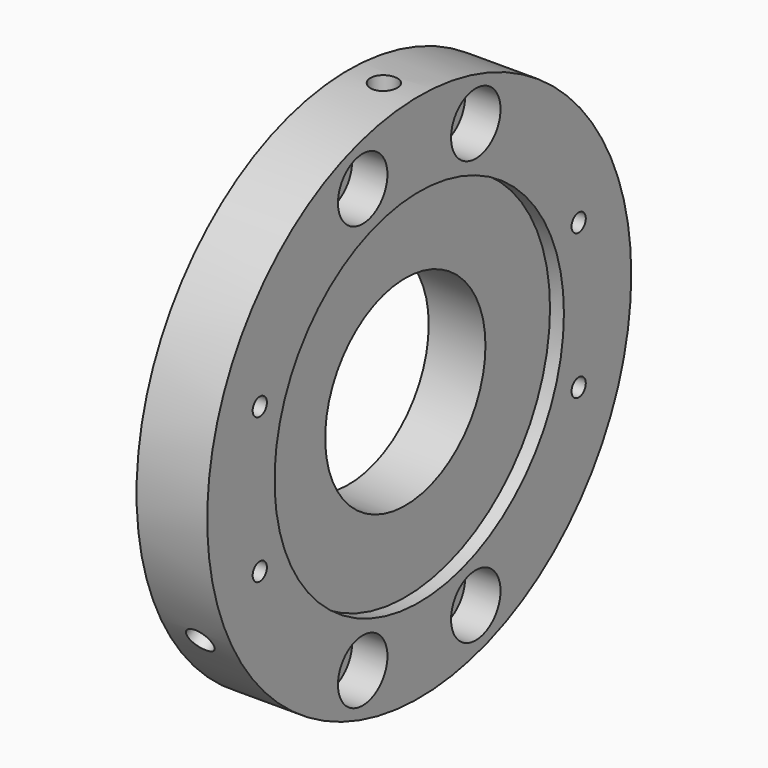
from build123d import *

# Parameters (mm, degrees)
F0_R           = 47.625
F0_R_2         = 18
F1_DEPTH       = 6.35
F2_R           = 32.5
F3_DEPTH       = 2.5
F5_D           = 3.2
F5_DEPTH       = 10
F5_TIP         = 0.9613769904
F7_D           = 6.7564
F7_CBORE_D     = 11.1125
F7_CBORE_DEPTH = 6.35
F9_R           = 2.413
F10_DEPTH      = 16.002
F11_SIZE       = 2.286
F13_COUNT      = 3
F13_ANGLE      = 240


with BuildPart() as f1:
    # F0 (on Right) → F1 (new body, symmetric)
    with BuildSketch(Plane.YZ):
        Circle(F0_R)
        Circle(F0_R_2, mode=Mode.SUBTRACT)
    extrude(amount=F1_DEPTH, both=True)

    # F2 (on face) → F3 (cut)
    with BuildSketch(Plane.YZ.offset(6.35)):
        Circle(F2_R)
    extrude(amount=-F3_DEPTH, mode=Mode.SUBTRACT)

    # F5
    with Locations(Plane.YZ.offset(6.35)):
        with Locations((-35.814, 13.03522997), (35.814, 13.03522997), (35.814, -13.03522997), (-35.814, -13.03522997)):
            Hole(F5_D / 2, depth=F5_DEPTH)
            with Locations((0, 0, -(F5_DEPTH + F5_TIP / 2))):  # 118° drill point
                Cone(0, F5_D / 2, F5_TIP, mode=Mode.SUBTRACT)

    # F7 (through all)
    with Locations(Plane.YZ.offset(6.35)):
        with Locations((-12.7, 38.1), (12.7, 38.1), (-12.7, -38.1), (12.7, -38.1)):
            CounterBoreHole(F7_D / 2, F7_CBORE_D / 2, F7_CBORE_DEPTH)


with BuildPart() as f10:
    # F9 (on offset) → F10 (new body, symmetric)
    with BuildSketch(Plane.XY.offset(47.625)):
        Circle(F9_R)
    extrude(amount=F10_DEPTH, both=True)

    # F11
    f11_edges = [f10.edges().sort_by_distance(p)[0] for p in [
        (-2.413, 0, 31.623),
    ]]
    chamfer(f11_edges, length=F11_SIZE)


with BuildPart() as f13_1:
    # F13: instance of F10
    add(f10.part.rotate(Axis((0.1950263977, 0, 0), (1, 0, 0)), 1 * F13_ANGLE / (F13_COUNT - 1)))


with BuildPart() as f13_2:
    # F13: instance of F10
    add(f10.part.rotate(Axis((0.1950263977, 0, 0), (1, 0, 0)), 2 * F13_ANGLE / (F13_COUNT - 1)))


with BuildPart() as f1_1:
    add(f1.part)

    # F14: cut F10, F13_1, F13_2
    add(f10.part, mode=Mode.SUBTRACT)
    add(f13_1.part, mode=Mode.SUBTRACT)
    add(f13_2.part, mode=Mode.SUBTRACT)


solid = f1_1.part
